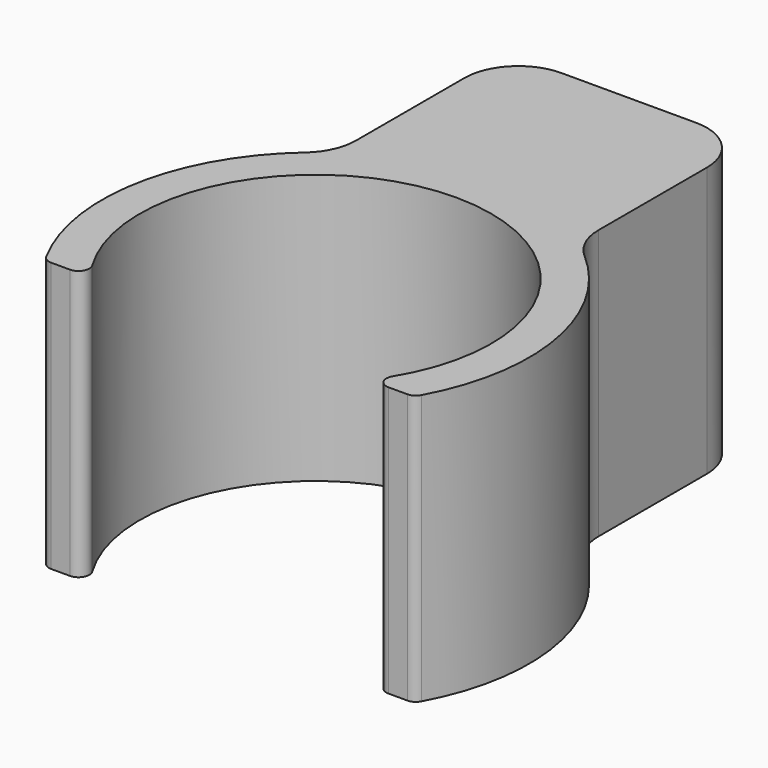
from build123d import *

# Parameters (mm, degrees)
F1_DEPTH = 25
F3_DEPTH = 25
F4_R     = 1
F5_R     = 5


with BuildPart() as f1:
    # F0 (on Top) → F1 (new body)
    with BuildSketch(Plane.XY):
        with BuildLine():
            ThreePointArc((-12.8720627718, -10), (0, 16.3), (12.8720627718, -10))
            Line((12.8720627718, -10), (17.089177862, -10))
            ThreePointArc((17.089177862, -10), (0, 19.8), (-17.089177862, -10))
            Line((-17.089177862, -10), (-12.8720627718, -10))
        make_face()
    extrude(amount=F1_DEPTH)

    # F2 (on face) → F3 (join, through all)
    with BuildSketch(Plane(origin=(0, 0, 0), x_dir=(1, 0, 0), z_dir=(0, 0, -1))):
        Polygon((11.2405515879, -16.3), (0, -16.3), (-11.2405515879, -16.3), (-11.2405515879, -36.3), (11.2405515879, -36.3), align=None)
    extrude(amount=-F3_DEPTH)

    # F4
    f4_edges = [f1.edges().sort_by_distance(p)[0] for p in [
        (-12.872063, -10, 12.5),
        (12.872063, -10, 12.5),
        (-17.089178, -10, 12.5),
        (17.089178, -10, 12.5),
    ]]
    fillet(f4_edges, radius=F4_R)

    # F5
    f5_edges = [f1.edges().sort_by_distance(p)[0] for p in [
        (-11.240552, 16.3, 12.5),
        (11.240552, 16.3, 12.5),
        (-11.240552, 36.3, 12.5),
        (11.240552, 36.3, 12.5),
    ]]
    fillet(f5_edges, radius=F5_R)


solid = f1.part
